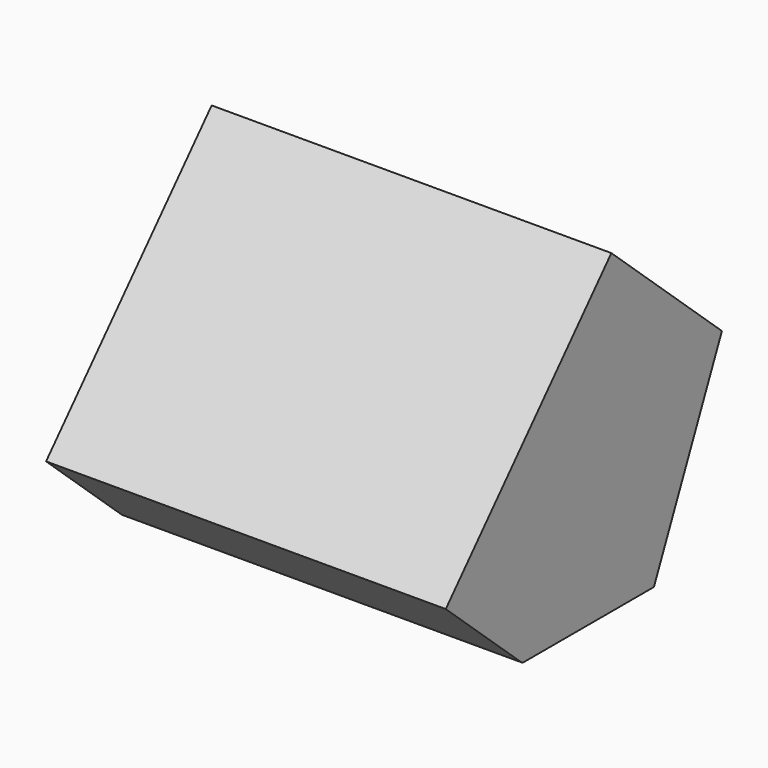
from build123d import *

# Parameters (mm, degrees)
F1_DEPTH = 558.8


with BuildPart() as f1:
    # F0 (on Right) → F1 (new body)
    with BuildSketch(Plane.YZ):
        with BuildLine():
            Line((-203.2, 0), (0, 0))
            Line((0, 0), (24.326557, 0))
            Line((24.326557, 0), (143.169588, 266.830928))
            Line((143.169588, 266.830928), (-50.079897, 441.292268))
            Line((-50.079897, 441.292268), (-339.430412, 120.780928))
            Line((-339.430412, 120.780928), (-207.455155, 1.636598))
            ThreePointArc((-207.455155, 1.636598), (-205.479517, 0.423255), (-203.2, 0))
        make_face()
    extrude(amount=F1_DEPTH)


solid = f1.part
